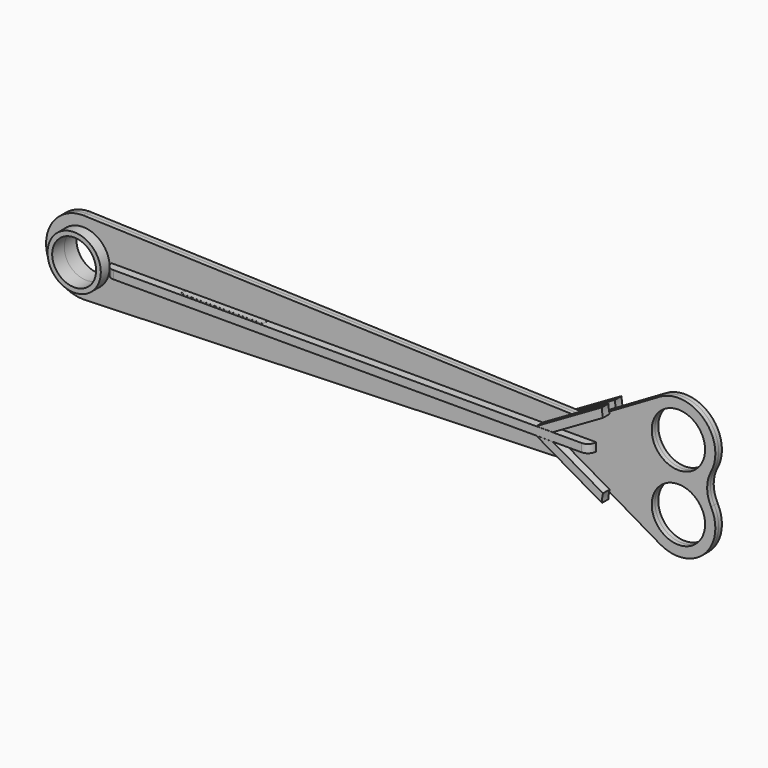
from build123d import *

# Parameters (mm, degrees)
F0_R          = 32.5
F0_W          = 100.1
F0_H          = 10.1
F1_DEPTH      = 5
F1_DEPTH_BACK = 5
F2_W          = 100
F2_H          = 17.5
F3_DEPTH      = 5
F3_DEPTH_BACK = 5
F2_H_2        = 15.1
F5_DEPTH      = 10
F7_R          = 32.45
F7_R_2        = 26.75
F8_DEPTH      = 18.5
F8_DEPTH_BACK = 18.5


with BuildPart() as f1:
    # F0 (on Front) → F1 (new body, two sides)
    with BuildSketch(Plane.XZ) as f1_sk:
        with BuildLine():
            ThreePointArc((1.4764017016, -44.9757739012), (32.3375793511, -31.2934651599), (45, 0))
            ThreePointArc((45, 0), (32.8454281088, 30.7600041019), (2.9476510067, 44.9033557047))
            Line((2.9476510067, 44.9033557047), (0, 45))
            ThreePointArc((0, 45), (-44.9939430677, -0.7383002249), (1.4764017016, -44.9757739012))
        make_face()
        Circle(F0_R, mode=Mode.SUBTRACT)
        with BuildLine():
            ThreePointArc((2.9476510067, 44.9033557047), (32.8454281088, 30.7600041019), (45, 0))
            ThreePointArc((45, 0), (32.3375793511, -31.2934651599), (1.4764017016, -44.9757739012))
            Line((1.4764017016, -44.9757739012), (610, -25))
            Line((610, -25), (702.3216164051, -78.8676075611))
            ThreePointArc((702.3216164051, -78.8676075611), (756.2058769896, -72.4221103772), (764.7058823529, -18.8235294118))
            ThreePointArc((764.7058823529, -18.8235294118), (760, 0), (764.7058823529, 18.8235294118))
            ThreePointArc((764.7058823529, 18.8235294118), (693.7941230104, 7.5778896228), (702.3216164051, 78.8676075611))
            Line((702.3216164051, 78.8676075611), (610, 25))
            Line((610, 25), (2.9476510067, 44.9033557047))
        make_face()
        with Locations((725, -40)):
            Circle(F0_R, mode=Mode.SUBTRACT)
        with Locations((175, 0)):
            Rectangle(F0_W, F0_H, mode=Mode.SUBTRACT)
        with Locations((375, 0)):
            Rectangle(F0_W, F0_H, mode=Mode.SUBTRACT)
        with BuildLine():
            Line((0, 45), (2.9476510067, 44.9033557047))
            ThreePointArc((2.9476510067, 44.9033557047), (1.4746174569, 44.9758324365), (0, 45))
        make_face()
        with BuildLine():
            ThreePointArc((770, 40), (747.4106307166, 79.0226041018), (702.3216164051, 78.8676075611))
            ThreePointArc((702.3216164051, 78.8676075611), (693.7941230104, 7.5778896228), (764.7058823529, 18.8235294118))
            ThreePointArc((764.7058823529, 18.8235294118), (768.6564125065, 29.0858968734), (770, 40))
        make_face()
        with Locations((725, 40)):
            Circle(F0_R, mode=Mode.SUBTRACT)
    extrude(amount=F1_DEPTH)
    extrude(f1_sk.sketch, amount=-F1_DEPTH_BACK)


with BuildPart() as f3:
    # F2 (on Top) → F3 (new body, two sides)
    with BuildSketch(Plane.XY) as f3_sk:
        with BuildLine():
            Line((615, 15.05), (45, 15.05))
            ThreePointArc((45, 15.05), (37.9289321881, 12.1210678119), (35, 5.05))
            Line((35, 5.05), (125, 5.05))
            Line((125, 5.05), (225, 5.05))
            Line((225, 5.05), (324.9, 5.05))
            Line((324.9, 5.05), (324.9, 10.15))
            Line((324.9, 10.15), (425.1, 10.15))
            Line((425.1, 10.15), (425.1, 5.05))
            Line((425.1, 5.05), (625, 5.05))
            ThreePointArc((625, 5.05), (622.0710678119, 12.1210678119), (615, 15.05))
        make_face()
        with Locations((175, -3.7)):
            Rectangle(F2_W, F2_H)
    extrude(amount=F3_DEPTH)
    extrude(f3_sk.sketch, amount=-F3_DEPTH_BACK)


with BuildPart() as f3b:
    # F2 (on Top) → F3, piece 2 (new body, two sides)
    with BuildSketch(Plane.XY) as f3_2_sk:
        with BuildLine():
            ThreePointArc((35, -5.05), (37.9289321881, -12.1210678119), (45, -15.05))
            Line((45, -15.05), (615, -15.05))
            ThreePointArc((615, -15.05), (622.0710678119, -12.1210678119), (625, -5.05))
            Line((625, -5.05), (425, -5.05))
            Line((425, -5.05), (325, -5.05))
            Line((325, -5.05), (225.05, -5.05))
            Line((225.05, -5.05), (225.05, -12.55))
            Line((225.05, -12.55), (124.95, -12.55))
            Line((124.95, -12.55), (124.95, -5.05))
            Line((124.95, -5.05), (35, -5.05))
        make_face()
        with Locations((375, 2.5)):
            Rectangle(F2_W, F2_H_2)
    extrude(amount=F3_DEPTH)
    extrude(f3_2_sk.sketch, amount=-F3_DEPTH_BACK)


with BuildPart() as f5:
    # F4 (on face) → F5 (new body)
    with BuildSketch(Plane(origin=(0, 5, 0), x_dir=(-1, 0, 0), z_dir=(0, 1, 0))):
        with BuildLine():
            Line((-580, -5.1), (-641.2246966978, -40.4480951195))
            ThreePointArc((-641.2246966978, -40.4480951195), (-640.1528154614, -45.7947973022), (-639.9220160607, -51.2429974868))
            Line((-639.9220160607, -51.2429974868), (-560, -5.1))
            Line((-560, -5.1), (-580, -5.1))
        make_face()
    extrude(amount=F5_DEPTH)


with BuildPart() as f5b:
    # F4 (on face) → F5, piece 2 (new body)
    with BuildSketch(Plane(origin=(0, 5, 0), x_dir=(-1, 0, 0), z_dir=(0, 1, 0))):
        with BuildLine():
            Line((-641.2246966978, 40.4480951195), (-580, 5.1))
            Line((-580, 5.1), (-560, 5.1))
            Line((-560, 5.1), (-639.9220160607, 51.2429974868))
            ThreePointArc((-639.9220160607, 51.2429974868), (-640.1528154614, 45.7947973022), (-641.2246966978, 40.4480951195))
        make_face()
    extrude(amount=F5_DEPTH)


with BuildPart() as f6_1:
    # F6: instance of F5b
    add(f5b.part.mirror(Plane.XZ))


with BuildPart() as f6_2:
    # F6: instance of F5
    add(f5.part.mirror(Plane.XZ))


with BuildPart() as f8:
    # F7 (on Front) → F8 (new body, two sides)
    with BuildSketch(Plane.XZ) as f8_sk:
        Circle(F7_R)
        Circle(F7_R_2, mode=Mode.SUBTRACT)
    extrude(amount=F8_DEPTH)
    extrude(f8_sk.sketch, amount=-F8_DEPTH_BACK)


solid = Compound([f1.part, f3.part, f3b.part, f5.part, f5b.part, f6_1.part, f6_2.part, f8.part])
